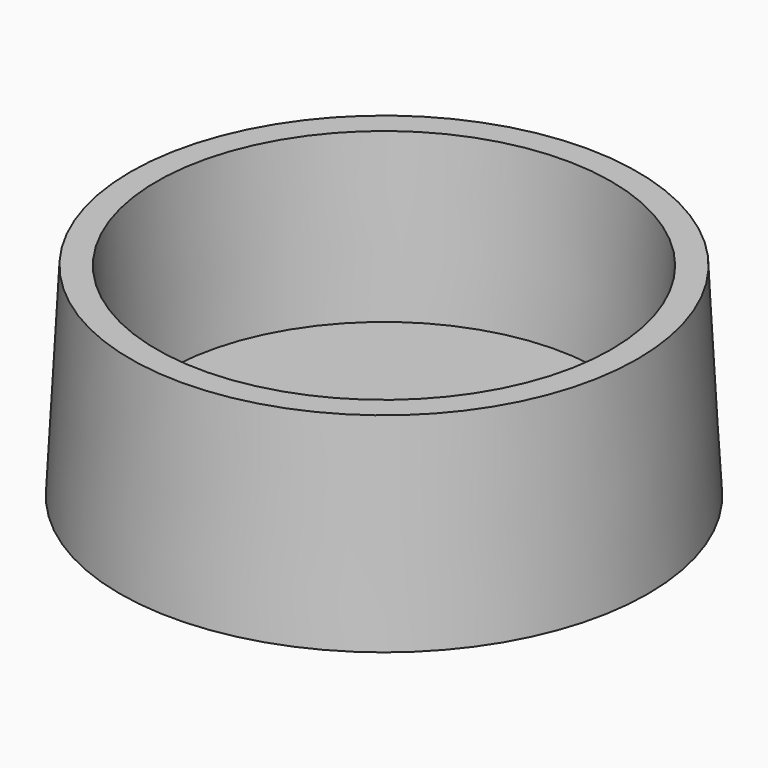
from build123d import *

# Parameters (mm, degrees)
F0_R     = 19.5
F0_R_2   = 16
F1_DEPTH = 15
F1_TAPER = 3
F2_DEPTH = 3


with BuildPart() as f1:
    # F0 (on Top) → F1 (new body)
    with BuildSketch(Plane.XY):
        Circle(F0_R)
        Circle(F0_R_2, mode=Mode.SUBTRACT)
    extrude(amount=F1_DEPTH, taper=F1_TAPER)

    # F0 (on Top) → F2 (join)
    with BuildSketch(Plane.XY):
        Circle(F0_R_2)
    extrude(amount=F2_DEPTH)


solid = f1.part
